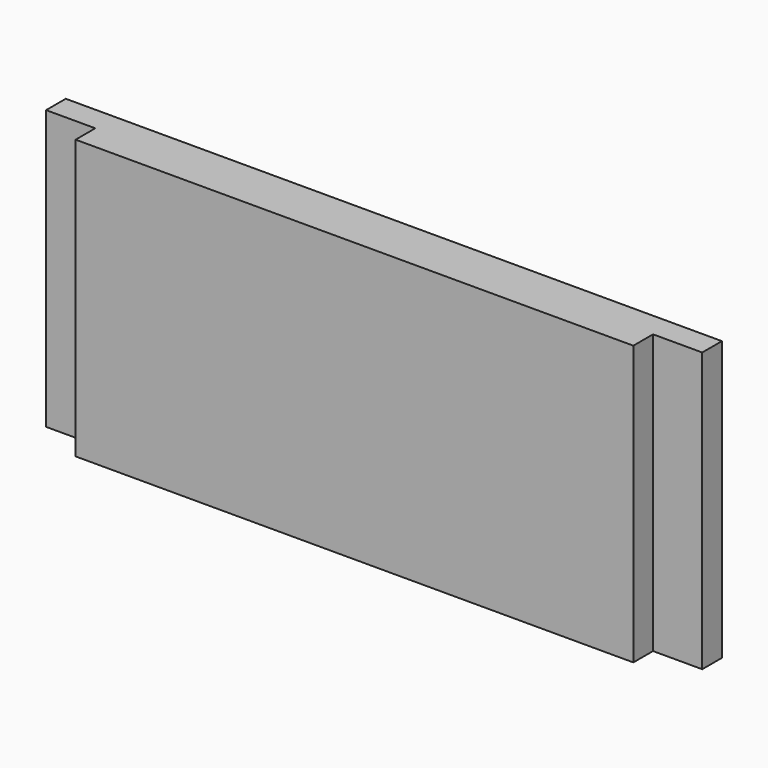
from build123d import *

# Parameters (mm, degrees)
F0_W     = 160
F0_H     = 68
F1_DEPTH = 12
F3_DEPTH = 12
F4_W     = 6
F4_H     = 68
F5_DEPTH = 12


with BuildPart() as f1:
    # F0 (on Front) → F1 (new body)
    with BuildSketch(Plane.XZ):
        Rectangle(F0_W, F0_H)
    extrude(amount=F1_DEPTH)

    # F2 (on face) → F3 (cut)
    with BuildSketch(Plane.YZ.offset(80)):
        Polygon((-6, 22), (-6, 34), (-12, 34), (-12, -34), (-6, -34), align=None)
    extrude(amount=-F3_DEPTH, mode=Mode.SUBTRACT)

    # F4 (on face) → F5 (cut)
    with BuildSketch(Plane(origin=(-80, 0, 0), x_dir=(0, -1, 0), z_dir=(-1, 0, 0))):
        with Locations((9, 0)):
            Rectangle(F4_W, F4_H)
    extrude(amount=-F5_DEPTH, mode=Mode.SUBTRACT)


solid = f1.part
